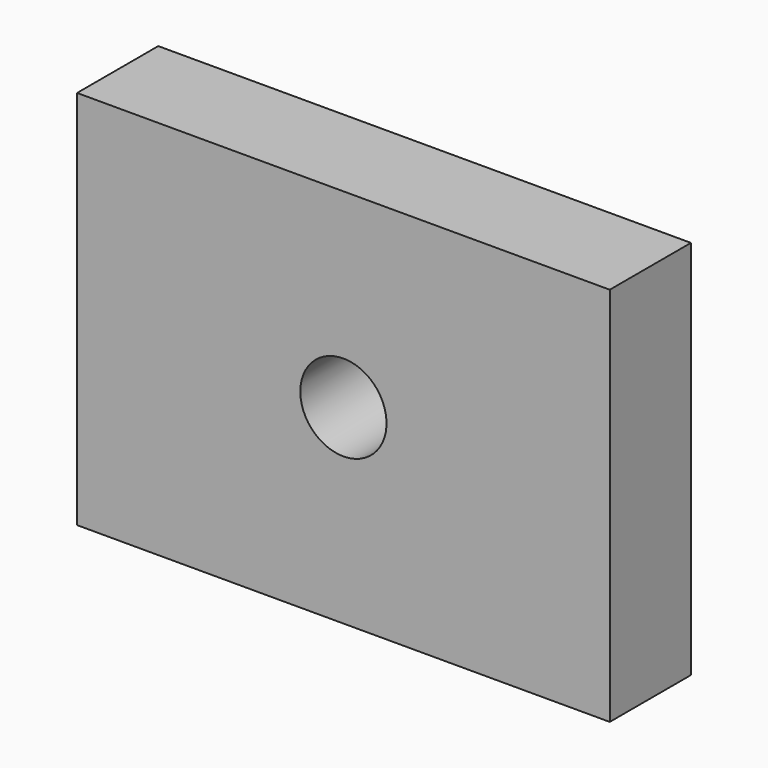
from build123d import *

# Parameters (mm, degrees)
F0_W     = 42
F0_H     = 30
F1_DEPTH = 8
F2_D     = 6.8


with BuildPart() as f1:
    # F0 (on Front) → F1 (new body)
    with BuildSketch(Plane.XZ):
        Rectangle(F0_W, F0_H)
    extrude(amount=F1_DEPTH)

    # F2 (through all)
    with Locations(Plane(origin=(0, 0, 0), x_dir=(1, 0, 0), z_dir=(0, 1, 0))):
        with Locations((0, 0)):
            Hole(F2_D / 2)


solid = f1.part
